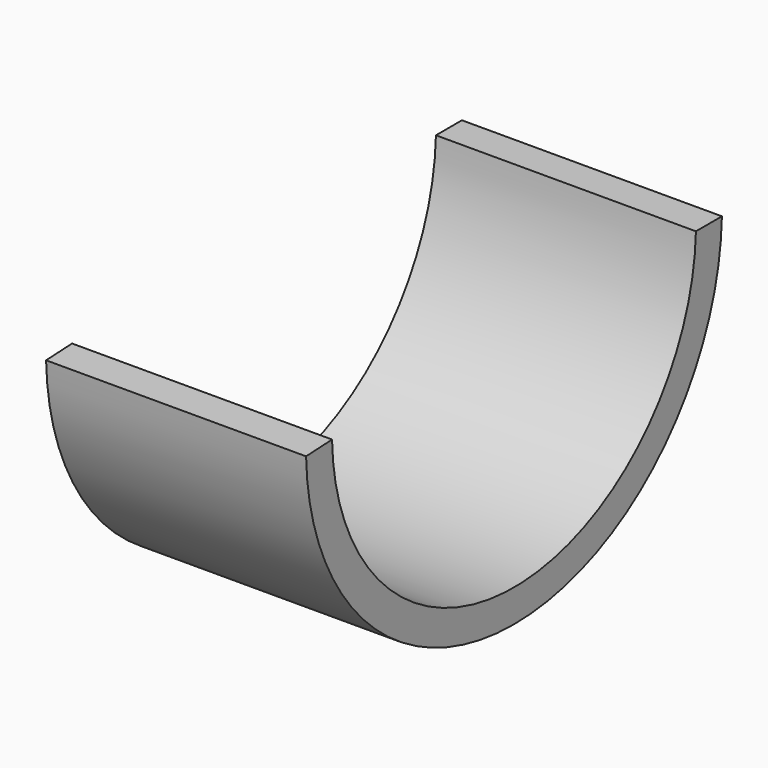
from build123d import *

# Parameters (mm, degrees)
F1_W = 25.4
F1_H = 3.175


with BuildPart() as f2:
    # F2: sweep along a path in F0
    with BuildLine(Plane.YZ) as f2_path:
        ThreePointArc((-50.784509, 0), (-25.392255, -24.772783), (0, 0))
    # F1 (on Top) → F2 (sweep)
    with BuildSketch(Plane.XY):
        with Locations((12.7, -1.5875)):
            Rectangle(F1_W, F1_H)
    sweep(path=f2_path.line)


solid = f2.part
